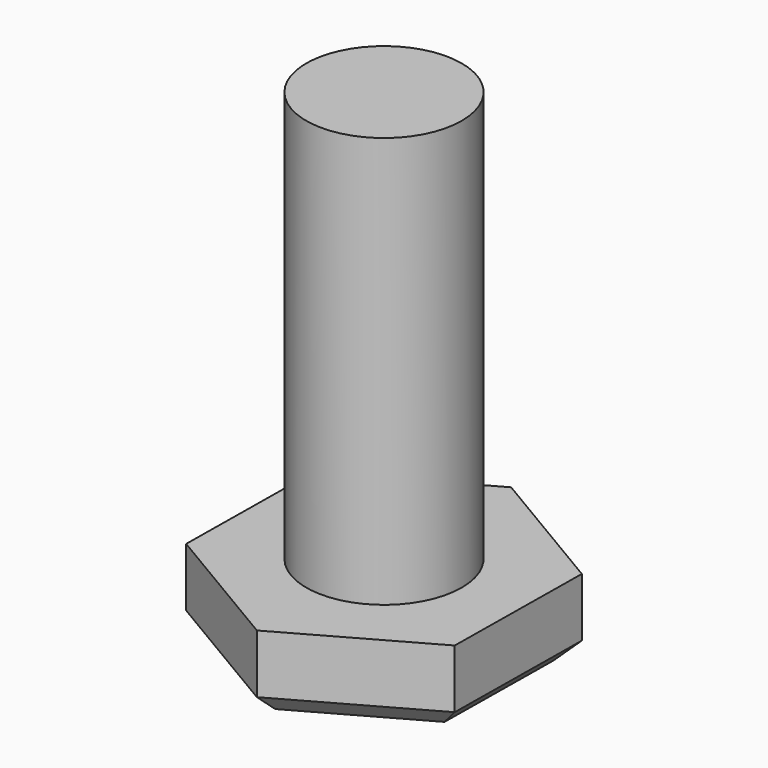
from build123d import *

# Parameters (mm, degrees)
F0_R     = 3.975
F1_DEPTH = 25
F2_DEPTH = 4
F3_SIZE  = 1


with BuildPart() as f1:
    # F0 (on Top) → F1 (new body)
    with BuildSketch(Plane.XY):
        with Locations((-61.589289, -9.165525)):
            Circle(F0_R)
    extrude(amount=F1_DEPTH)

    # F0 (on Top) → F2 (join)
    with BuildSketch(Plane.XY):
        Polygon((-61.685733, -17.164943), (-54.709811, -13.248756), (-54.613368, -5.249337), (-61.492846, -1.166106), (-68.468768, -5.082293), (-68.565211, -13.081712), align=None)
        with Locations((-61.589289, -9.165525)):
            Circle(F0_R, mode=Mode.SUBTRACT)
    extrude(amount=F2_DEPTH)

    # F3
    f3_edges = [f1.edges().sort_by_distance(p)[0] for p in [
        (-65.125472, -15.123327, 0),
        (-58.197772, -15.20685, 0),
        (-54.66159, -9.249047, 0),
        (-58.053107, -3.207722, 0),
        (-64.980807, -3.124199, 0),
        (-68.516989, -9.082002, 0),
    ]]
    chamfer(f3_edges, length=F3_SIZE)


solid = f1.part
